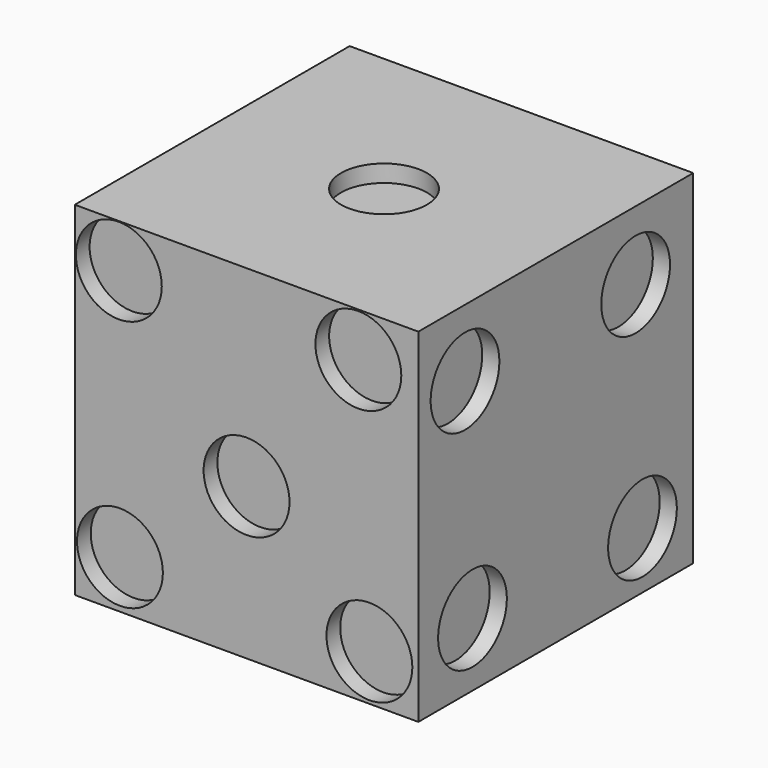
from build123d import *

# Parameters (mm, degrees)
F0_W      = 25.4
F0_H      = 50.8
F1_DEPTH  = 50.8
F2_R      = 6.35
F3_DEPTH  = 2.54
F4_R      = 6.35
F5_DEPTH  = 2.54
F6_R      = 6.35
F7_DEPTH  = 2.54
F8_R      = 6.35
F9_DEPTH  = 2.54
F10_R     = 6.35
F11_DEPTH = 2.54
F12_R     = 6.35
F13_DEPTH = 2.54


with BuildPart() as f1:
    # F0 (on Top) → F1 (new body)
    with BuildSketch(Plane.XY):
        with Locations((-12.7, 0)):
            Rectangle(F0_W, F0_H)
        with Locations((12.7, 0)):
            Rectangle(F0_W, F0_H)
    extrude(amount=F1_DEPTH)

    # F2 (on face) → F3 (cut)
    with BuildSketch(Plane.XY.offset(50.8)):
        Circle(F2_R)
    extrude(amount=-F3_DEPTH, mode=Mode.SUBTRACT)

    # F4 (on face) → F5 (cut)
    with BuildSketch(Plane(origin=(0, 0, 0), x_dir=(1, 0, 0), z_dir=(0, 0, -1))):
        with Locations((15.7828163356, 14.1213936731)):
            Circle(F4_R)
        with Locations((-14.078758657, 15.8332046121)):
            Circle(F4_R)
        with Locations((15.1571258903, 0)):
            Circle(F4_R)
        with Locations((-14.2689589411, 0)):
            Circle(F4_R)
        with Locations((-13.359840028, -15.3967663646)):
            Circle(F4_R)
        with Locations((14.4382100552, -15.1571286842)):
            Circle(F4_R)
    extrude(amount=-F5_DEPTH, mode=Mode.SUBTRACT)

    # F6 (on face) → F7 (cut)
    with BuildSketch(Plane.XZ.offset(25.4)):
        with Locations((18.1605778635, 6.8199974485)):
            Circle(F6_R)
        with Locations((-18.7246706337, 7.1070431732)):
            Circle(F6_R)
        with Locations((0, 22.4099811167)):
            Circle(F6_R)
        with Locations((16.5282599628, 44.2445091903)):
            Circle(F6_R)
        with Locations((-18.8880376518, 44.3454124033)):
            Circle(F6_R)
    extrude(amount=-F7_DEPTH, mode=Mode.SUBTRACT)

    # F8 (on face) → F9 (cut)
    with BuildSketch(Plane.YZ.offset(25.4)):
        with Locations((-16.7743396014, 40.8508107066)):
            Circle(F8_R)
        with Locations((14.7602735087, 40.6206287444)):
            Circle(F8_R)
        with Locations((-15.3932608664, 9.4312885776)):
            Circle(F8_R)
        with Locations((16.0262603313, 8.395479992)):
            Circle(F8_R)
    extrude(amount=-F9_DEPTH, mode=Mode.SUBTRACT)

    # F10 (on face) → F11 (cut)
    with BuildSketch(Plane(origin=(-25.4, 0, 0), x_dir=(0, -1, 0), z_dir=(-1, 0, 0))):
        with Locations((0, 25.7740411907)):
            Circle(F10_R)
        with Locations((16.2564348429, 10.3520061821)):
            Circle(F10_R)
        with Locations((-15.0479944423, 41.3111671805)):
            Circle(F10_R)
    extrude(amount=-F11_DEPTH, mode=Mode.SUBTRACT)

    # F12 (on face) → F13 (cut)
    with BuildSketch(Plane(origin=(0, 25.4, 0), x_dir=(-1, 0, 0), z_dir=(0, 1, 0))):
        with Locations((-17.407335341, 8.6256600916)):
            Circle(F12_R)
        with Locations((18.8459586352, 43.7280572951)):
            Circle(F12_R)
    extrude(amount=-F13_DEPTH, mode=Mode.SUBTRACT)


solid = f1.part
